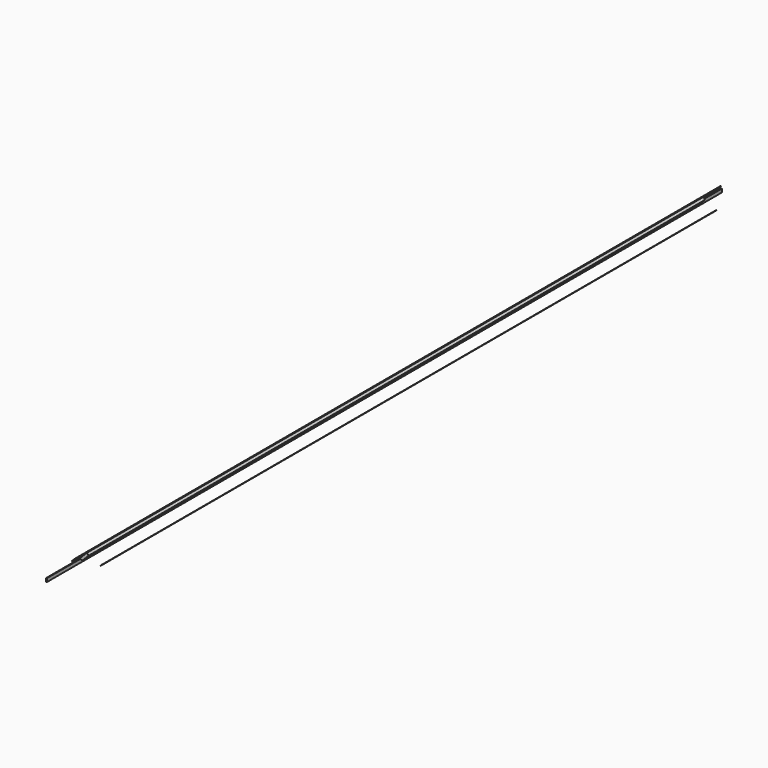
from build123d import *

# Parameters (mm, degrees)
F1_DEPTH = 525
F2_DEPTH = 550
F3_DEPTH = 575
F5_DEPTH = 550
F6_DEPTH = 575


with BuildPart() as f1:
    # F0 (on Front) → F1 (new body, symmetric)
    with BuildSketch(Plane.XZ):
        Polygon((-2.4118969857, -2.4231005272), (-4.9174987565, 0.0825012435), (-14.1421356237, -9.1421356237), (-11.636533853, -11.6477373945), align=None)
    extrude(amount=F1_DEPTH, both=True)


with BuildPart() as f1b:
    # F0 (on Front) → F1, piece 2 (new body, symmetric)
    with BuildSketch(Plane.XZ):
        Polygon((14.1421356237, -9.1421356237), (13.8515589816, -8.8515589816), (13.8515589816, -9.4327122659), align=None)
    extrude(amount=F1_DEPTH, both=True)


with BuildPart() as f2:
    # F0 (on Front) → F2 (new body, symmetric)
    with BuildSketch(Plane.XZ):
        Polygon((-0.6748580693, 4.3251419307), (0, 5), (4.2426406871, 0.7573593129), (13.8193102697, -8.8193102697), (13.8515589816, -8.7870615579), (10.8745088347, -5.810011411), (10.854404961, -5.7899075373), (5.416530139, -0.3520327153), (0.416530139, 4.6479672847), (-0.6748580693, 5.739355493), (-1.4142135624, 5), (-6.4142135624, 0), (-11.872192258, -5.4579786956), (-14.8492424049, -8.4350288425), (-14.4649609777, -8.8193102697), (-5.2403241105, 0.4053265976), (-0.9976834234, 4.6479672847), align=None)
        Polygon((-4.2426406871, 0.7573593129), (-0.6748580693, 4.3251419307), (-0.9976834234, 4.6479672847), (-5.2403241105, 0.4053265976), (-4.9174987565, 0.0825012435), align=None)
    extrude(amount=F2_DEPTH, both=True)


with BuildPart() as f3:
    # F0 (on Front) → F3 (new body, symmetric)
    with BuildSketch(Plane.XZ):
        Polygon((-19.5, -17.5), (-19.5, -14.8695067036), (-20.4976834234, -14.8695067036), (-20.4976834234, -17.8520327153), (-20.4976834234, -19.5070338249), (-19.5, -19.5070338249), align=None)
    extrude(amount=F3_DEPTH, both=True)


with BuildPart() as f5:
    # F0 (on Front) → F5 (new body, symmetric)
    with BuildSketch(Plane.XZ):
        Polygon((-4.2426406871, 0.7573593129), (-0.6748580693, 4.3251419307), (-0.9976834234, 4.6479672847), (-5.2403241105, 0.4053265976), (-4.9174987565, 0.0825012435), align=None)
    extrude(amount=F5_DEPTH, both=True)


with BuildPart() as f6:
    # F0 (on Front) → F6 (new body, symmetric)
    with BuildSketch(Plane.XZ):
        Polygon((-19.5, -17.5), (-19.5, -14.8695067036), (-20.4976834234, -14.8695067036), (-20.4976834234, -17.8520327153), (-20.4976834234, -19.5070338249), (-19.5, -19.5070338249), align=None)
    extrude(amount=F6_DEPTH, both=True)


solid = Compound([f1.part, f1b.part, f3.part, f5.part, f6.part])
